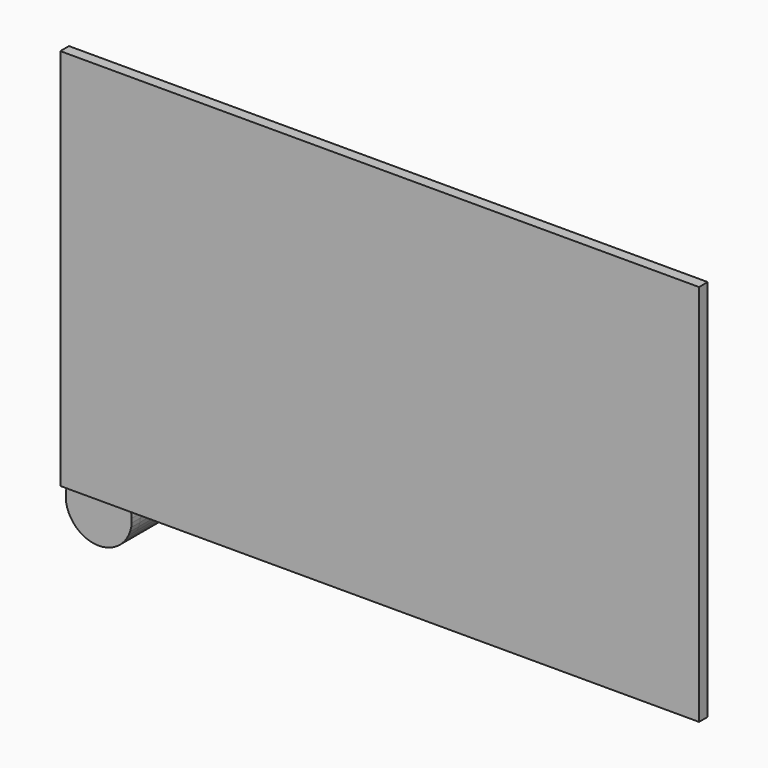
from build123d import *

# Parameters (mm, degrees)
F1_DEPTH = 599.44
F2_DEPTH = 25.4
F3_W     = 1496.678393
F3_H     = 897.052115
F4_DEPTH = 25.4


with BuildPart() as f1:
    # F0 (on Front) → F1 (new body)
    with BuildSketch(Plane.XZ):
        Polygon((-37.940267, 21.916499), (-33.199538, 30.403366), (-29.559879, 39.417482), (-27.078687, 48.81669), (-25.795093, 58.452758), (-25.729341, 68.173719), (-26.882466, 77.826269), (-29.236284, 87.25818), (-32.753673, 96.320707), (-37.379163, 104.870926), (-43.039805, 112.773998), (-49.64633, 119.905284), (-57.094547, 126.152322), (-65.266994, 131.41659), (-74.034787, 135.615069), (-83.259652, 138.681546), (-92.796107, 140.56766), (-102.493758, 141.243667), (-112.199666, 140.698906), (-121.760763, 138.941967), (-131.026265, 136.000559), (-139.85005, 131.92107), (-148.092961, 126.767835), (-155.625003, 120.622125), (-162.327391, 113.58086), (-168.094423, 105.755085), (-172.835152, 97.268218), (-176.474812, 88.254102), (-178.956003, 78.854895), (-180.239597, 69.218827), (-180.30535, 59.497866), (-179.152224, 49.845316), (-176.798406, 40.413404), (-173.281017, 31.350878), (-168.655528, 22.800658), (-162.994885, 14.897587), (-156.38836, 7.7663), (-148.940143, 1.519263), (-140.767696, -3.745006), (-131.999903, -7.943484), (-122.775038, -11.009961), (-113.238583, -12.896076), (-103.540932, -13.572083), (-93.835024, -13.027321), (-84.273927, -11.270383), (-75.008425, -8.328975), (-66.18464, -4.249486), (-57.941729, 0.903749), (-50.409687, 7.04946), (-43.707299, 14.090725), align=None)
    extrude(amount=F1_DEPTH)

    # F1_face (on face) → F2 (join)
    with BuildSketch(Plane(origin=(-103.017345, -599.44, 63.835792), x_dir=(1, 0, 0), z_dir=(0, -1, 0))):
        Polygon((-73.781061, -23.422388), (-70.263672, -32.484914), (-65.638182, -41.035134), (-59.97754, -48.938206), (-53.371015, -56.069492), (-45.922798, -62.316529), (-37.750351, -67.580798), (-28.982558, -71.779277), (-19.757693, -74.845753), (-10.221238, -76.731868), (-0.523587, -77.407875), (9.182321, -76.863114), (18.743418, -75.106175), (28.00892, -72.164767), (36.832705, -68.085278), (45.075616, -62.932043), (52.607658, -56.786332), (59.310046, -49.745067), (65.077078, -41.919293), (69.817807, -33.432426), (73.457467, -24.41831), (75.938658, -15.019102), (77.222252, -5.383035), (77.288004, 4.337927), (76.134879, 13.990476), (73.781061, 23.422388), (70.263672, 32.484914), (65.638182, 41.035134), (59.97754, 48.938206), (53.371015, 56.069492), (45.922798, 62.316529), (37.750351, 67.580798), (28.982558, 71.779277), (19.757693, 74.845753), (10.221238, 76.731868), (0.523587, 77.407875), (-9.182321, 76.863114), (-18.743418, 75.106175), (-28.00892, 72.164767), (-36.832705, 68.085278), (-45.075616, 62.932043), (-52.607658, 56.786332), (-59.310046, 49.745067), (-65.077078, 41.919293), (-69.817807, 33.432426), (-73.457467, 24.41831), (-75.938658, 15.019102), (-77.222252, 5.383035), (-77.288004, -4.337927), (-76.134879, -13.990476), align=None)
    extrude(amount=F2_DEPTH)

    # F3 (on face) → F4 (join)
    with BuildSketch(Plane.XZ.offset(624.84)):
        with Locations((575.504044, 545.794276)):
            Rectangle(F3_W, F3_H)
    extrude(amount=F4_DEPTH)


solid = f1.part
